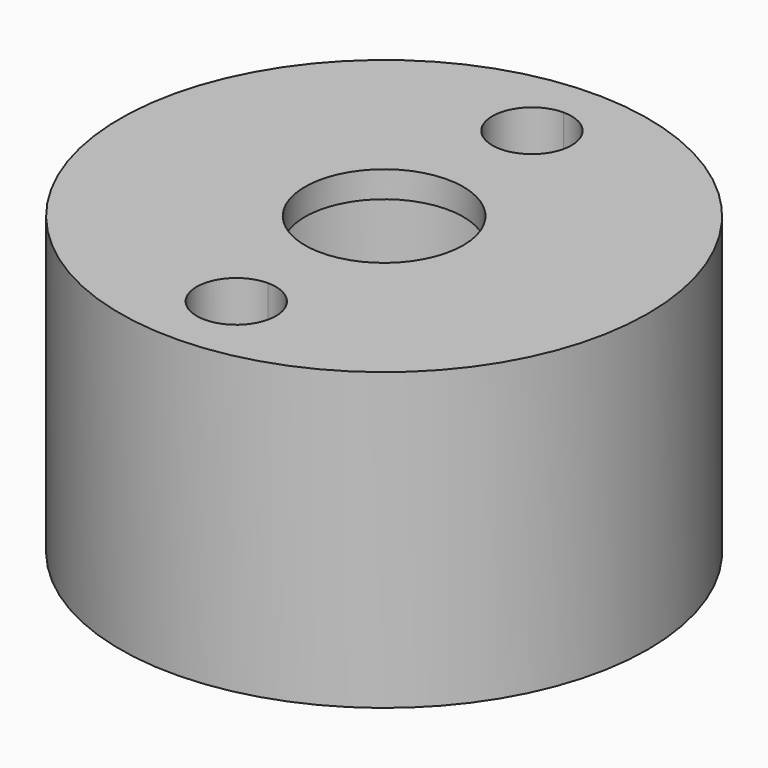
from build123d import *

# Parameters (mm, degrees)
F0_R     = 10
F0_R_2   = 4.25
F1_DEPTH = 10.2
F3_R     = 10
F3_R_2   = 3
F4_DEPTH = 1
F7_DEPTH = 15


with BuildPart() as f1:
    # F0 (on Top) → F1 (new body)
    with BuildSketch(Plane.XY):
        Circle(F0_R)
        Circle(F0_R_2, mode=Mode.SUBTRACT)
    extrude(amount=F1_DEPTH)

    # F3 (on offset) → F4 (join)
    with BuildSketch(Plane.XY.offset(10.2)):
        Circle(F3_R)
        Circle(F3_R_2, mode=Mode.SUBTRACT)
    extrude(amount=F4_DEPTH)

    # F6 (on offset) → F7 (cut)
    with BuildSketch(Plane.XY.offset(11.2)):
        with BuildLine():
            ThreePointArc((0, -5.5), (-1.5, -7), (0, -8.5))
            Line((0, -8.5), (0, -5.5))
        make_face()
        with BuildLine():
            ThreePointArc((0, 8.5), (-1.5, 7), (0, 5.5))
            Line((0, 5.5), (0, 8.5))
        make_face()
        with BuildLine():
            Line((0, 8.5), (0, 5.5))
            ThreePointArc((0, 5.5), (1.06066, 5.93934), (1.5, 7))
            ThreePointArc((1.5, 7), (1.06066, 8.06066), (0, 8.5))
        make_face()
        with BuildLine():
            Line((0, -5.5), (0, -8.5))
            ThreePointArc((0, -8.5), (1.06066, -8.06066), (1.5, -7))
            ThreePointArc((1.5, -7), (1.06066, -5.93934), (0, -5.5))
        make_face()
    extrude(amount=-F7_DEPTH, mode=Mode.SUBTRACT)


solid = f1.part
